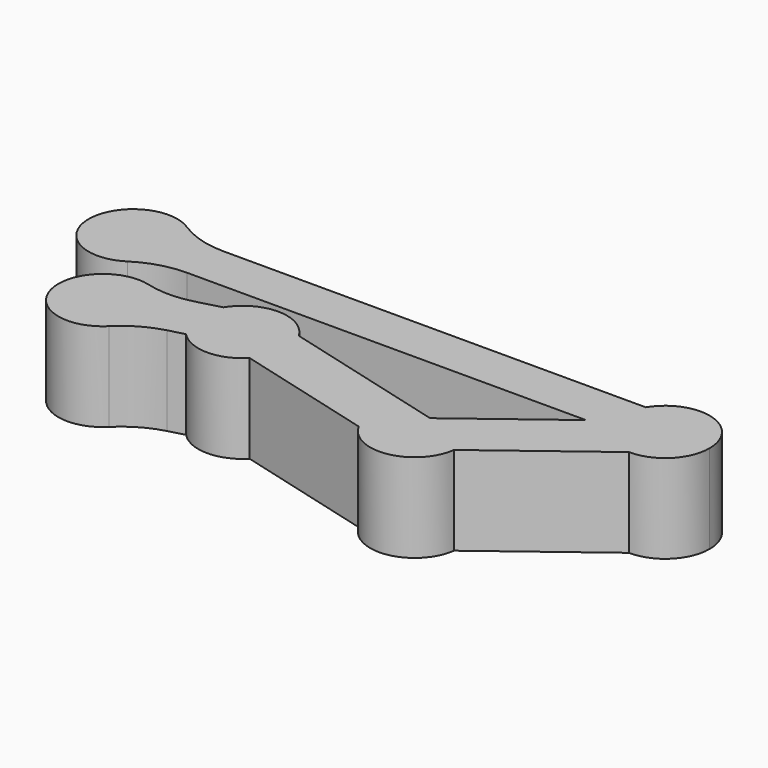
from build123d import *

# Parameters (mm, degrees)
F1_DEPTH = 5
F2_DEPTH = 5
F3_R     = 5


with BuildPart() as f1:
    # F0 (on Top) → F1 (new body)
    with BuildSketch(Plane.XY):
        with BuildLine():
            ThreePointArc((3.8778323824, 0.876766336), (4.1491402261, 0.2522371821), (4.2418691481, -0.4223337609))
            ThreePointArc((4.2418691481, -0.4223337609), (4.1491402261, -1.0969047038), (3.8778323824, -1.7214338577))
            Line((3.8778323824, -1.7214338577), (28.311316439, -1.7214338577))
            Line((28.311316439, -1.7214338577), (29.302722756, -0.9705717363))
            ThreePointArc((29.302722756, -0.9705717363), (29.2748726925, -0.0174529288), (29.6059059138, 0.876766336))
            Line((29.6059059138, 0.876766336), (3.8778323824, 0.876766336))
        make_face()
        with BuildLine():
            ThreePointArc((34.2418691481, -0.4223337609), (32.4164400911, 1.9849373171), (29.6059059138, 0.876766336))
            Line((29.6059059138, 0.876766336), (31.7418691481, 0.876766336))
            Line((31.7418691481, 0.876766336), (33.5531306582, -1.5147461023))
            Line((33.5531306582, -1.5147461023), (31.6951874639, -2.921897887))
            ThreePointArc((31.6951874639, -2.921897887), (33.4930538599, -2.206528847), (34.2418691481, -0.4223337609))
        make_face()
        with BuildLine():
            Line((33.5531306582, -1.5147461023), (31.7418691481, 0.876766336))
            Line((31.7418691481, 0.876766336), (31.7418691481, -1.7214338577))
            Line((31.7418691481, -1.7214338577), (29.6059059138, -1.7214338577))
            ThreePointArc((29.6059059138, -1.7214338577), (30.4963719858, -2.5899907491), (31.6951874639, -2.921897887))
            Line((31.6951874639, -2.921897887), (33.5531306582, -1.5147461023))
        make_face()
        with BuildLine():
            Line((31.7418691481, 0.876766336), (29.6059059138, 0.876766336))
            ThreePointArc((29.6059059138, 0.876766336), (29.2748726925, -0.0174529288), (29.302722756, -0.9705717363))
            Line((29.302722756, -0.9705717363), (31.7418691481, 0.876766336))
        make_face()
        with BuildLine():
            Line((31.7418691481, -1.7214338577), (31.7418691481, 0.876766336))
            Line((31.7418691481, 0.876766336), (29.302722756, -0.9705717363))
            ThreePointArc((29.302722756, -0.9705717363), (29.4237113655, -1.358359666), (29.6059059138, -1.7214338577))
            Line((29.6059059138, -1.7214338577), (31.7418691481, -1.7214338577))
        make_face()
        with BuildLine():
            Line((29.6059059138, -1.7214338577), (28.311316439, -1.7214338577))
            Line((28.311316439, -1.7214338577), (24.0527407032, -4.9467544517))
            ThreePointArc((24.0527407032, -4.9467544517), (25.1599747934, -5.8682005046), (25.5749808252, -7.2476207279))
            ThreePointArc((25.5749808252, -7.2476207279), (25.569649156, -7.4108074897), (25.5536768898, -7.5732982052))
            Line((25.5536768898, -7.5732982052), (31.6951874639, -2.921897887))
            ThreePointArc((31.6951874639, -2.921897887), (30.4963719858, -2.5899907491), (29.6059059138, -1.7214338577))
        make_face()
        with BuildLine():
            Line((29.302722756, -0.9705717363), (28.311316439, -1.7214338577))
            Line((28.311316439, -1.7214338577), (29.6059059138, -1.7214338577))
            ThreePointArc((29.6059059138, -1.7214338577), (29.4237113655, -1.358359666), (29.302722756, -0.9705717363))
        make_face()
        with BuildLine():
            ThreePointArc((25.5749808252, -7.2476207279), (25.1599747934, -5.8682005046), (24.0527407032, -4.9467544517))
            Line((24.0527407032, -4.9467544517), (22.8393681886, -5.8657272732))
            Line((22.8393681886, -5.8657272732), (24.2570694169, -6.2455991724))
            Line((24.2570694169, -6.2455991724), (23.4806122816, -9.1433766513))
            Line((23.4806122816, -9.1433766513), (25.5536768898, -7.5732982052))
            ThreePointArc((25.5536768898, -7.5732982052), (25.569649156, -7.4108074897), (25.5749808252, -7.2476207279))
        make_face()
        with BuildLine():
            ThreePointArc((20.8814307518, -8.4469280594), (23.5344743938, -9.7050310844), (25.5536768898, -7.5732982052))
            Line((25.5536768898, -7.5732982052), (23.4806122816, -9.1433766513))
            Line((23.4806122816, -9.1433766513), (20.8814307518, -8.4469280594))
        make_face()
        with BuildLine():
            Line((21.6693507715, -6.751864213), (22.8393681886, -5.8657272732))
            Line((22.8393681886, -5.8657272732), (21.3268372671, -5.4604458343))
            ThreePointArc((21.3268372671, -5.4604458343), (20.6023291733, -6.8788473441), (20.8814307518, -8.4469280594))
            Line((20.8814307518, -8.4469280594), (23.4806122816, -9.1433766513))
            Line((23.4806122816, -9.1433766513), (21.6693507715, -6.751864213))
        make_face()
        Polygon((24.2570694169, -6.2455991724), (22.8393681886, -5.8657272732), (21.6693507715, -6.751864213), (23.4806122816, -9.1433766513), align=None)
        with BuildLine():
            ThreePointArc((20.8814307518, -8.4469280594), (20.6023291733, -6.8788473441), (21.3268372671, -5.4604458343))
            Line((21.3268372671, -5.4604458343), (13.4219767307, -3.3423448372))
            ThreePointArc((13.4219767307, -3.3423448372), (13.6767457968, -3.9504448184), (13.7636843696, -4.6040001325))
            ThreePointArc((13.7636843696, -4.6040001325), (13.5793417545, -5.5461948448), (13.0534996689, -6.3494402473))
            Line((13.0534996689, -6.3494402473), (20.8814307518, -8.4469280594))
        make_face()
        with BuildLine():
            ThreePointArc((13.7636843696, -4.6040001325), (13.6767457968, -3.9504448184), (13.4219767307, -3.3423448372))
            Line((13.4219767307, -3.3423448372), (11.4246112089, -2.8071523587))
            Line((11.4246112089, -2.8071523587), (12.1704041891, -5.5904896527))
            Line((12.1704041891, -5.5904896527), (11.1957308392, -5.8516525897))
            Line((11.1957308392, -5.8516525897), (13.0534996689, -6.3494402473))
            ThreePointArc((13.0534996689, -6.3494402473), (13.5793417545, -5.5461948448), (13.7636843696, -4.6040001325))
        make_face()
        with BuildLine():
            Line((11.4246112089, -2.8071523587), (13.4219767307, -3.3423448372))
            ThreePointArc((13.4219767307, -3.3423448372), (11.2889517228, -2.1041278236), (9.1313345982, -3.2989773541))
            Line((9.1313345982, -3.2989773541), (11.3939470538, -2.6927121739))
            Line((11.3939470538, -2.6927121739), (11.4246112089, -2.8071523587))
        make_face()
        with BuildLine():
            Line((11.2012257233, -2.7472963982), (11.4246112089, -2.8071523587))
            Line((11.4246112089, -2.8071523587), (11.3939470538, -2.6927121739))
            Line((11.3939470538, -2.6927121739), (9.1313345982, -3.2989773541))
            ThreePointArc((9.1313345982, -3.2989773541), (8.7771380409, -4.8630124006), (9.44607009, -6.3204727745))
            Line((9.44607009, -6.3204727745), (11.1957308392, -5.8516525897))
            Line((11.1957308392, -5.8516525897), (10.424768588, -5.6450738771))
            Line((10.424768588, -5.6450738771), (11.2012257233, -2.7472963982))
        make_face()
        Polygon((12.1704041891, -5.5904896527), (11.4246112089, -2.8071523587), (11.2012257233, -2.7472963982), (10.424768588, -5.6450738771), (11.1957308392, -5.8516525897), align=None)
        with BuildLine():
            ThreePointArc((9.44607009, -6.3204727745), (11.2436101462, -7.1039195363), (13.0534996689, -6.3494402473))
            Line((13.0534996689, -6.3494402473), (11.1957308392, -5.8516525897))
            Line((11.1957308392, -5.8516525897), (9.44607009, -6.3204727745))
        make_face()
        with BuildLine():
            ThreePointArc((9.44607009, -6.3204727745), (8.7771380409, -4.8630124006), (9.1313345982, -3.2989773541))
            Line((9.1313345982, -3.2989773541), (6.1034072345, -4.110308046))
            ThreePointArc((6.1034072345, -4.110308046), (6.8080120864, -4.9834588452), (7.0597841495, -6.0768348756))
            ThreePointArc((7.0597841495, -6.0768348756), (7.0143921173, -6.5510708134), (6.8798643698, -7.0080855248))
            Line((6.8798643698, -7.0080855248), (9.44607009, -6.3204727745))
        make_face()
        with BuildLine():
            Line((4.1715555819, -4.6279461362), (6.1034072345, -4.110308046))
            ThreePointArc((6.1034072345, -4.110308046), (2.1449695838, -6.7238824884), (6.8798643698, -7.0080855248))
            Line((6.8798643698, -7.0080855248), (4.9480127172, -7.525723615))
            Line((4.9480127172, -7.525723615), (4.1715555819, -4.6279461362))
        make_face()
        with BuildLine():
            ThreePointArc((7.0597841495, -6.0768348756), (6.8080120864, -4.9834588452), (6.1034072345, -4.110308046))
            Line((6.1034072345, -4.110308046), (4.1715555819, -4.6279461362))
            Line((4.1715555819, -4.6279461362), (4.9480127172, -7.525723615))
            Line((4.9480127172, -7.525723615), (6.8798643698, -7.0080855248))
            ThreePointArc((6.8798643698, -7.0080855248), (7.0143921173, -6.5510708134), (7.0597841495, -6.0768348756))
        make_face()
    extrude(amount=F1_DEPTH)

    # F0 (on Top) → F2 (join)
    with BuildSketch(Plane.XY):
        with BuildLine():
            Line((1.7418691481, 0.876766336), (3.8778323824, 0.876766336))
            ThreePointArc((3.8778323824, 0.876766336), (-0.7581308519, -0.4223337609), (3.8778323824, -1.7214338577))
            Line((3.8778323824, -1.7214338577), (1.7418691481, -1.7214338577))
            Line((1.7418691481, -1.7214338577), (1.7418691481, 0.876766336))
        make_face()
        with BuildLine():
            ThreePointArc((3.8778323824, -1.7214338577), (4.1491402261, -1.0969047038), (4.2418691481, -0.4223337609))
            ThreePointArc((4.2418691481, -0.4223337609), (4.1491402261, 0.2522371821), (3.8778323824, 0.876766336))
            Line((3.8778323824, 0.876766336), (1.7418691481, 0.876766336))
            Line((1.7418691481, 0.876766336), (1.7418691481, -1.7214338577))
            Line((1.7418691481, -1.7214338577), (3.8778323824, -1.7214338577))
        make_face()
    extrude(amount=F2_DEPTH)

    # F3
    f3_edges = [f1.edges().sort_by_distance(p)[0] for p in [
        (3.877832, 0.876766, 2.5),
        (3.877832, -1.721434, 2.5),
        (6.879864, -7.008086, 2.5),
        (6.103407, -4.110308, 2.5),
    ]]
    fillet(f3_edges, radius=F3_R)


solid = f1.part
